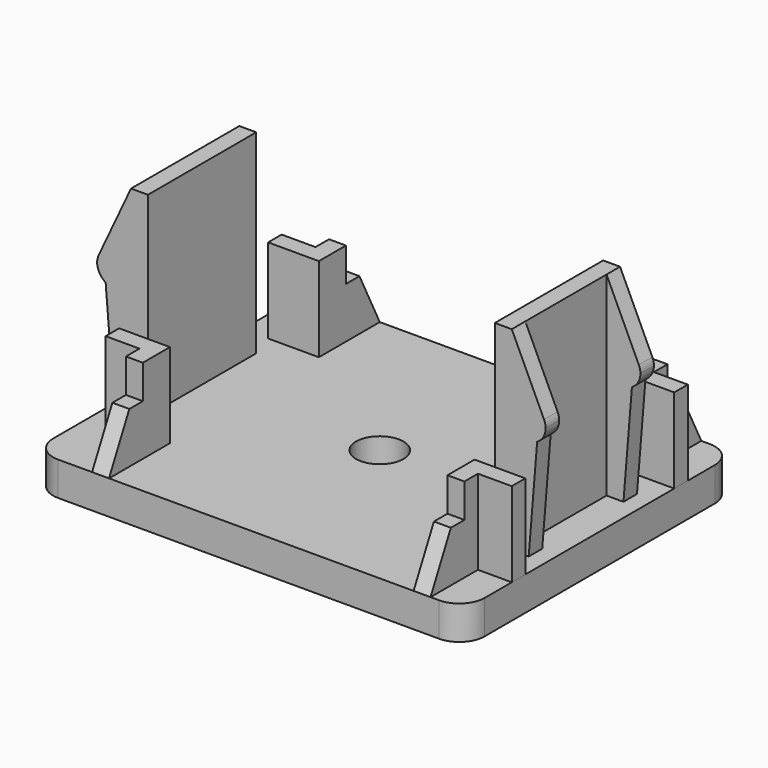
from build123d import *

# Parameters (mm, degrees)
F1_DEPTH  = 11.5
F3_DEPTH  = 1
F5_W      = 4.5
F5_H      = 6.5
F6_DEPTH  = 28.13
F8_DEPTH  = 22.001
F10_DEPTH = 22.001
F11_R     = 1.4
F12_DEPTH = 2


with BuildPart() as f1:
    # F0 (on Top) → F1 (new body)
    with BuildSketch(Plane.XY):
        Polygon((-7.5, 5.5), (-7.5, 10), (-8.5, 10), (-8.5, 6.5), (-10.5, 6.5), (-10.5, 5.5), align=None)
        Polygon((-10, 4), (-13, 4), (-13, 3), (-11, 3), (-11, 0), (-10, 0), align=None)
        Polygon((11.5, 10), (10.5, 10), (10.5, 5.5), (13.5, 5.5), (13.5, 6.5), (11.5, 6.5), align=None)
        Polygon((13.5, 4), (10.5, 4), (10.5, 0), (11.5, 0), (11.5, 3), (13.5, 3), align=None)
    extrude(amount=F1_DEPTH)

    # F2 (on face) → F3 (cut, through all)
    with BuildSketch(Plane.XZ.offset(-3)):
        with BuildLine():
            ThreePointArc((-13, 7), (-12.976187, 7.21693), (-12.905882, 7.423529))
            Line((-12.905882, 7.423529), (-11, 11.5))
            Line((-11, 11.5), (-13, 11.5))
            Line((-13, 11.5), (-13, 7))
        make_face()
        with BuildLine():
            ThreePointArc((-12.5, 6.133975), (-12.866025, 6.5), (-13, 7))
            Line((-13, 7), (-13, 0))
            Line((-13, 0), (-12, 0))
            Line((-12, 0), (-12.5, 6.133975))
        make_face()
        with BuildLine():
            Line((11.5, 11.5), (13.405882, 7.423529))
            ThreePointArc((13.405882, 7.423529), (13.476187, 7.21693), (13.5, 7))
            Line((13.5, 7), (13.5, 11.5))
            Line((13.5, 11.5), (11.5, 11.5))
        make_face()
        with BuildLine():
            Line((13.5, 0), (13.5, 7))
            ThreePointArc((13.5, 7), (13.366025, 6.5), (13, 6.133975))
            Line((13, 6.133975), (12.5, 0))
            Line((12.5, 0), (13.5, 0))
        make_face()
    extrude(amount=-F3_DEPTH, mode=Mode.SUBTRACT)

    # F4: F1 across plane


with BuildPart() as f1_1:
    add(f1.part)
    add(f1.part.mirror(Plane.XZ))

    # F5 (on face) → F6 (cut, symmetric)
    with BuildSketch(Plane(origin=(-8.5, 0, 0), x_dir=(0, -1, 0), z_dir=(-1, 0, 0))):
        with Locations((-7.75, 8.25)):
            Rectangle(F5_W, F5_H)
        with Locations((7.75, 8.25)):
            Rectangle(F5_W, F5_H)
    extrude(amount=F6_DEPTH, both=True, mode=Mode.SUBTRACT)

    # F7 (on face) → F8 (cut, through all)
    with BuildSketch(Plane(origin=(-8.5, 0, 0), x_dir=(0, -1, 0), z_dir=(-1, 0, 0))):
        Polygon((-10, 5), (-10, 0), (-8.5, 3), (-7.5, 3), (-7.5, 5), align=None)
    extrude(amount=-F8_DEPTH, mode=Mode.SUBTRACT)

    # F9 (on face) → F10 (cut, through all)
    with BuildSketch(Plane(origin=(-8.5, 0, 0), x_dir=(0, -1, 0), z_dir=(-1, 0, 0))):
        Polygon((8.5, 3), (10, 0), (10, 5), (7.5, 5), (7.5, 3), align=None)
    extrude(amount=-F10_DEPTH, mode=Mode.SUBTRACT)


with BuildPart() as f12:
    # F11 (on Top) → F12 (new body)
    with BuildSketch(Plane.XY):
        with BuildLine():
            Line((12, 10), (-10.5, 10))
            ThreePointArc((-10.5, 10), (-11.56066, 9.56066), (-12, 8.5))
            Line((-12, 8.5), (-12, -8.5))
            ThreePointArc((-12, -8.5), (-11.56066, -9.56066), (-10.5, -10))
            Line((-10.5, -10), (12, -10))
            ThreePointArc((12, -10), (13.06066, -9.56066), (13.5, -8.5))
            Line((13.5, -8.5), (13.5, 8.5))
            ThreePointArc((13.5, 8.5), (13.06066, 9.56066), (12, 10))
        make_face()
        with Locations((0.5, 0)):
            Circle(F11_R, mode=Mode.SUBTRACT)
    extrude(amount=-F12_DEPTH)


solid = Compound([f1_1.part, f12.part])
